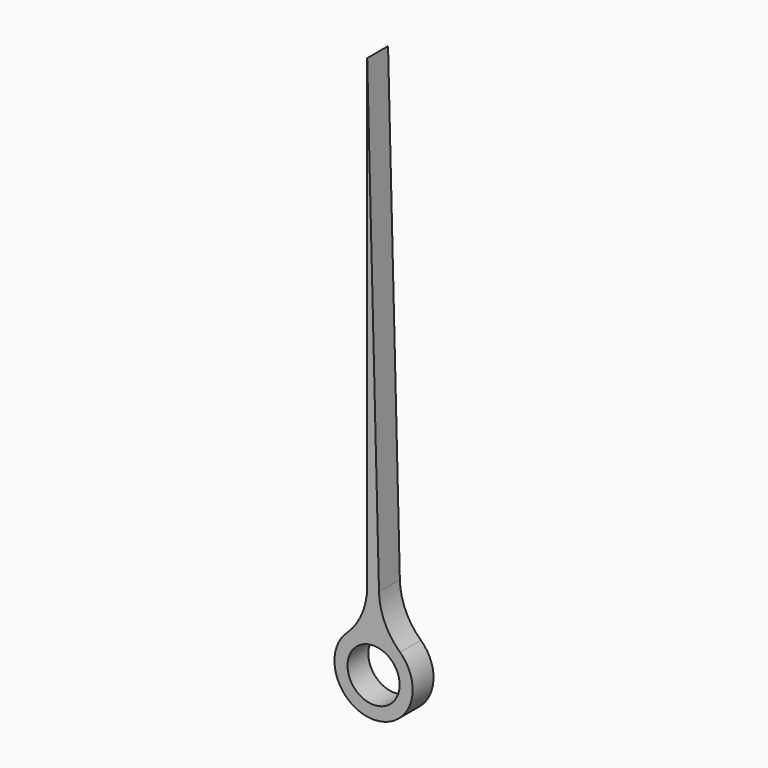
from build123d import *

# Parameters (mm, degrees)
F0_R     = 2
F1_DEPTH = 2


with BuildPart() as f1:
    # F0 (on Front) → F1 (new body)
    with BuildSketch(Plane.XZ):
        with BuildLine():
            ThreePointArc((-0.487867, 5.820938), (-0.897138, 3.839724), (-2.05795, 2.182852))
            ThreePointArc((-2.05795, 2.182852), (0.018579, -2.999942), (2.030755, 2.208174))
            ThreePointArc((2.030755, 2.208174), (0.86277, 3.821091), (0.416949, 5.76195))
            Line((0.416949, 5.76195), (-0.487867, 41.509971))
            Line((-0.487867, 41.509971), (-0.487867, 5.820938))
        make_face()
        Circle(F0_R, mode=Mode.SUBTRACT)
    extrude(amount=F1_DEPTH)


solid = f1.part
